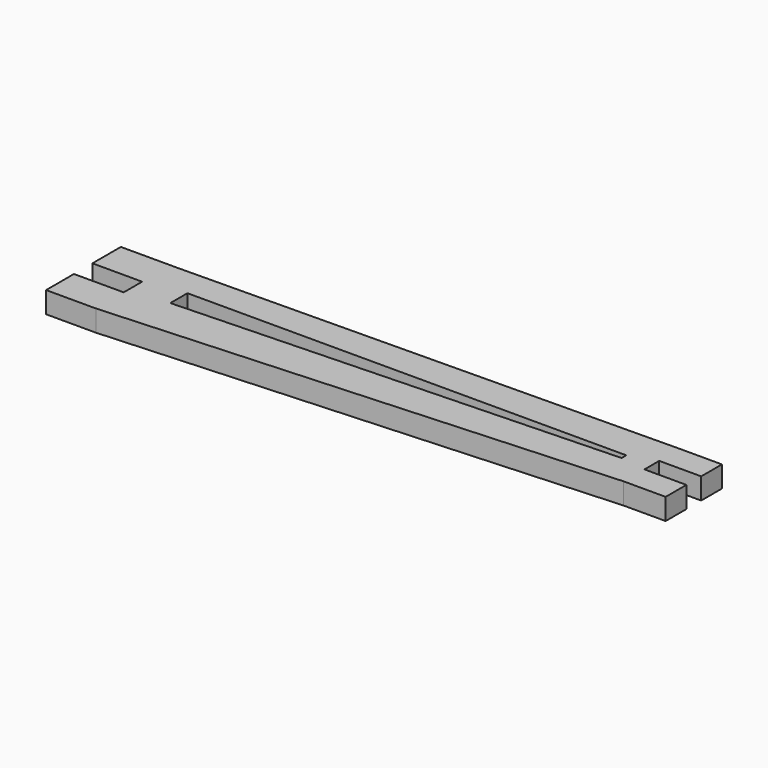
from build123d import *

# Parameters (mm, degrees)
F0_W     = 5.8
F0_H     = 7.3
F0_W_2   = 6
F1_DEPTH = 6


with BuildPart() as f1:
    # F0 (on Top) → F1 (new body)
    with BuildSketch(Plane.XY):
        with Locations((49.05348, 31.638525)):
            Rectangle(F0_W, F0_H)
        with Locations((49.05348, 19.138525)):
            Rectangle(F0_W, F0_H)
        with Locations((43.15348, 31.638525)):
            Rectangle(F0_W_2, F0_H)
        with Locations((43.15348, 19.138525)):
            Rectangle(F0_W_2, F0_H)
        Polygon((40.15348, 27.988525), (40.15348, 35.288525), (-99.84652, 33.588525), (-115.84652, 33.588525), (-115.84652, 23.588525), (-109.84652, 23.588525), (-101.84652, 23.588525), (-101.84652, 17.088525), (-115.84652, 17.088525), (-115.84652, 7.288525), (-101.84652, 7.288525), (40.15348, 15.488525), (40.15348, 22.788525), align=None)
        Polygon((-90.659194, 19.516328), (-90.659194, 25.532549), (32.843791, 25.532549), (32.843791, 23.890945), align=None, mode=Mode.SUBTRACT)
    extrude(amount=F1_DEPTH)


solid = f1.part
